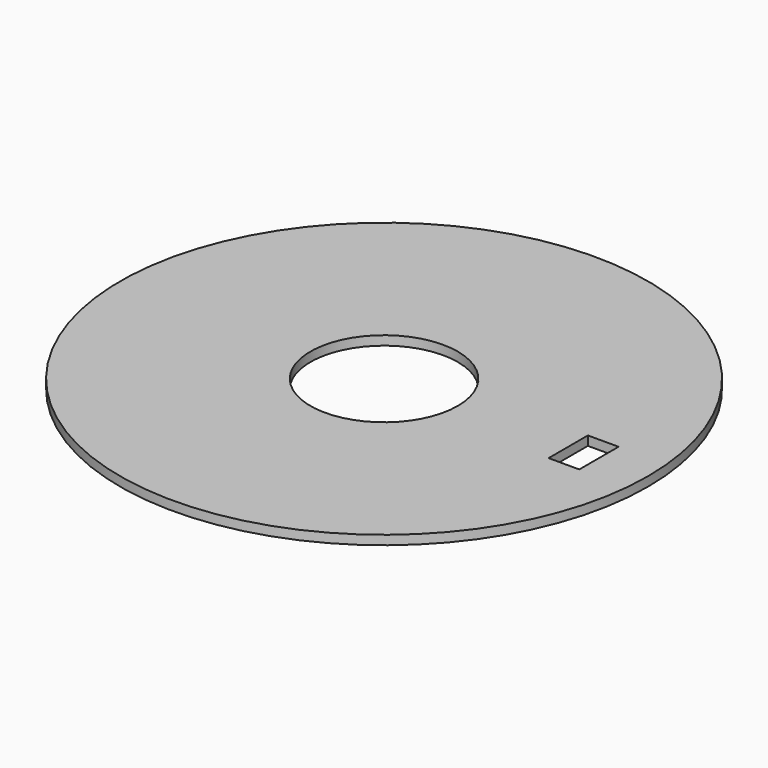
from build123d import *

# Parameters (mm, degrees)
F0_R     = 43
F0_R_2   = 12
F1_DEPTH = 1.5
F2_W     = 5
F2_H     = 8
F3_DEPTH = 1.5


with BuildPart() as f1:
    # F0 (on Top) → F1 (new body)
    with BuildSketch(Plane.XY):
        Circle(F0_R)
        Circle(F0_R_2, mode=Mode.SUBTRACT)
    extrude(amount=F1_DEPTH)

    # F2 (on face) → F3 (cut, through all)
    with BuildSketch(Plane.XY.offset(1.5)):
        with Locations((32.5, 0)):
            Rectangle(F2_W, F2_H)
    extrude(amount=-F3_DEPTH, mode=Mode.SUBTRACT)


solid = f1.part
